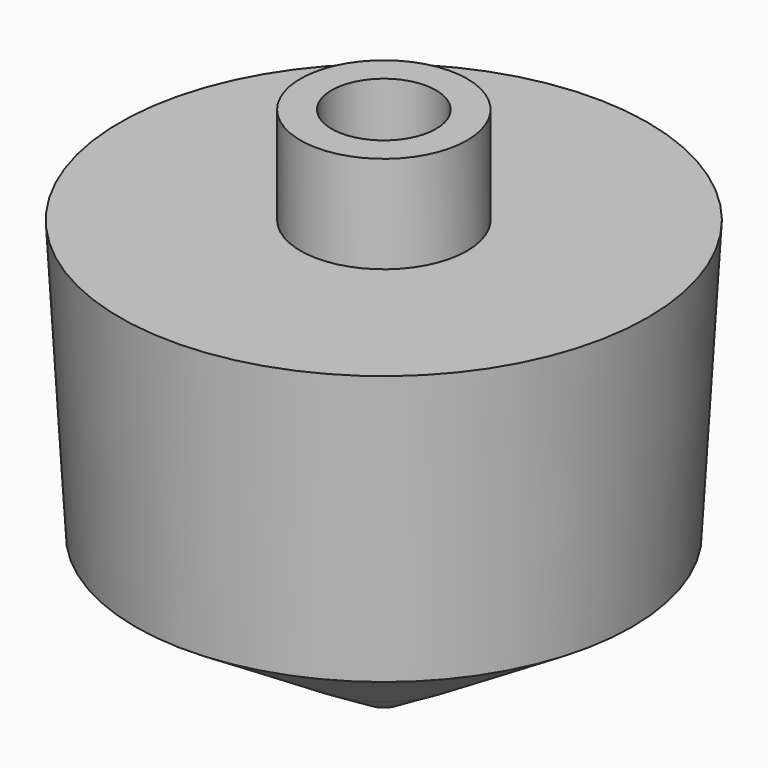
from build123d import *

# Parameters (mm, degrees)
F2_R     = 4.7752
F3_DEPTH = 12.7
F4_R     = 1.6002
F5_DEPTH = 19.685


with BuildPart() as f1:
    # F0 (on Front) → F1 (revolve)
    with BuildSketch(Plane.XZ):
        Polygon((0, 48.26), (0, 0), (7.62, 4.57905), (22.692223, 14.010726), (24.13, 39.37), (7.62, 39.37), (7.62, 48.26), align=None)
    revolve(axis=Axis((0, 0, 24.13), (0, 0, -1)))

    # F2 (on face) → F3 (cut)
    with BuildSketch(Plane.XY.offset(48.26)):
        Circle(F2_R)
    extrude(amount=-F3_DEPTH, mode=Mode.SUBTRACT)

    # F4 (on Top) → F5 (cut)
    with BuildSketch(Plane.XY):
        Circle(F4_R)
    extrude(amount=F5_DEPTH, mode=Mode.SUBTRACT)


solid = f1.part
